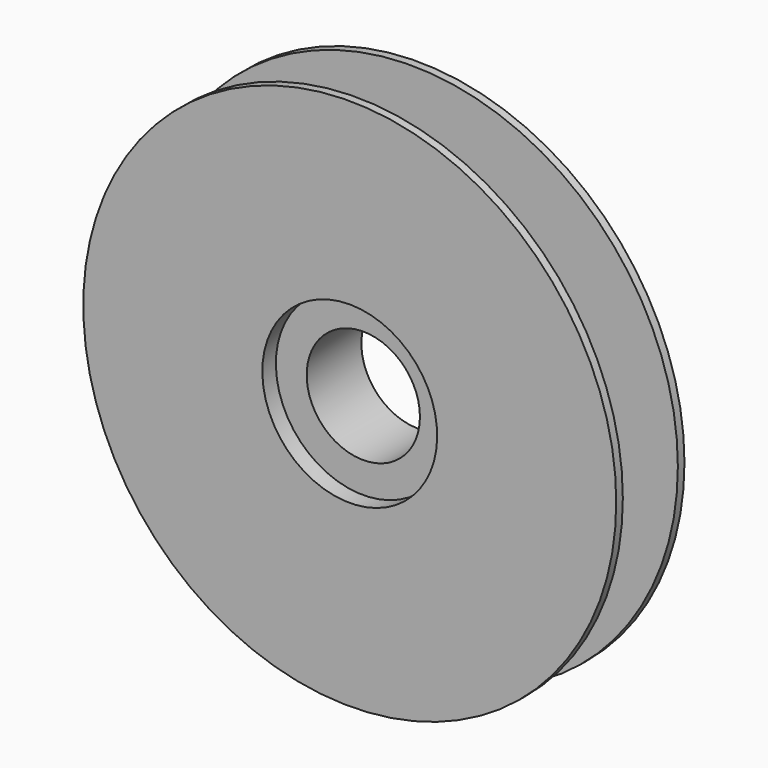
from build123d import *

# Parameters (mm, degrees)
F0_R     = 125
F1_DEPTH = 20
F2_R     = 26.56
F3_DEPTH = 20
F5_W     = 86.677861
F5_H     = 32.26
F7_W     = 7.9375
F7_H     = 41


with BuildPart() as f1:
    # F0 (on Front) → F1 (new body, symmetric)
    with BuildSketch(Plane.XZ):
        Circle(F0_R)
    extrude(amount=F1_DEPTH, both=True)

    # F2 (on Front) → F3 (cut, symmetric)
    with BuildSketch(Plane.XZ):
        Circle(F2_R)
    extrude(amount=F3_DEPTH, both=True, mode=Mode.SUBTRACT)

    # F5 (on Top) → F6 (revolve, cut)
    with BuildSketch(Plane.XY):
        with Locations((-84.65893, 0)):
            Rectangle(F5_W, F5_H)
    revolve(axis=Axis((0, 0, 0), (0, -1, 0)), mode=Mode.SUBTRACT)

    # F7 (on Right) → F8 (revolve, cut)
    with BuildSketch(Plane.YZ):
        with Locations((-16.03125, 20.5)):
            Rectangle(F7_W, F7_H)
    revolve(axis=Axis((0, -16.03125, 0), (0, 1, 0)), mode=Mode.SUBTRACT)


solid = f1.part
